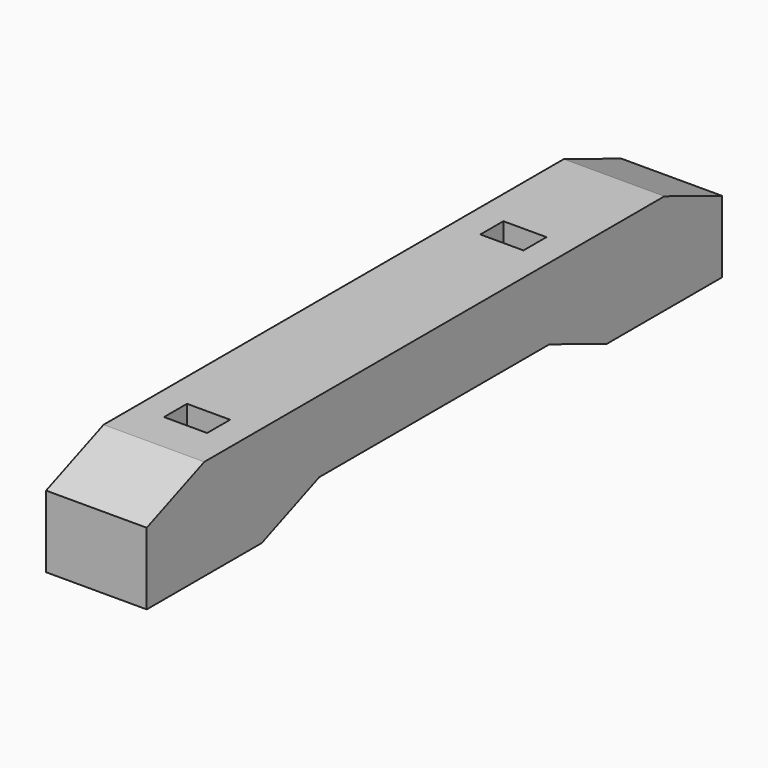
from build123d import *

# Parameters (mm, degrees)
F2_W       = 140
F2_H       = 140
F3_DEPTH   = 500
F4_SIZE2   = 100
F4_SIZE    = 40
F4_2_SIZE2 = 100
F4_2_SIZE  = 40
F6_DEPTH   = 70
F7_W       = 60
F7_H       = 40
F8_DEPTH   = 60


with BuildPart() as f3:
    # F2 (on Front) → F3 (new body, symmetric)
    with BuildSketch(Plane.XZ):
        Rectangle(F2_W, F2_H)
    extrude(amount=F3_DEPTH, both=True)

    # F4
    f4_edges = [f3.edges().sort_by_distance(p)[0] for p in [
        (0, -500, 70),
    ]]
    f4_side = f3.faces().sort_by_distance((0, -500, 0))[0]
    chamfer(f4_edges, length=F4_SIZE, length2=F4_SIZE2, reference=f4_side)

    # F4#2
    f4_2_edges = [f3.edges().sort_by_distance(p)[0] for p in [
        (0, 500, 70),
    ]]
    f4_2_side = f3.faces().sort_by_distance((0, 500, 0))[0]
    chamfer(f4_2_edges, length=F4_2_SIZE, length2=F4_2_SIZE2, reference=f4_2_side)

    # F5 (on Right) → F6 (cut, symmetric)
    with BuildSketch(Plane.YZ):
        Polygon((200, -30), (0, -30), (-200, -30), (-300, -70), (0, -70), (300, -70), align=None)
    extrude(amount=F6_DEPTH, both=True, mode=Mode.SUBTRACT)

    # F7 (on face) → F8 (cut)
    with BuildSketch(Plane.XY.offset(70)):
        with Locations((0, -325)):
            Rectangle(F7_W, F7_H)
        with Locations((0, 225)):
            Rectangle(F7_W, F7_H)
    extrude(amount=-F8_DEPTH, mode=Mode.SUBTRACT)


solid = f3.part
